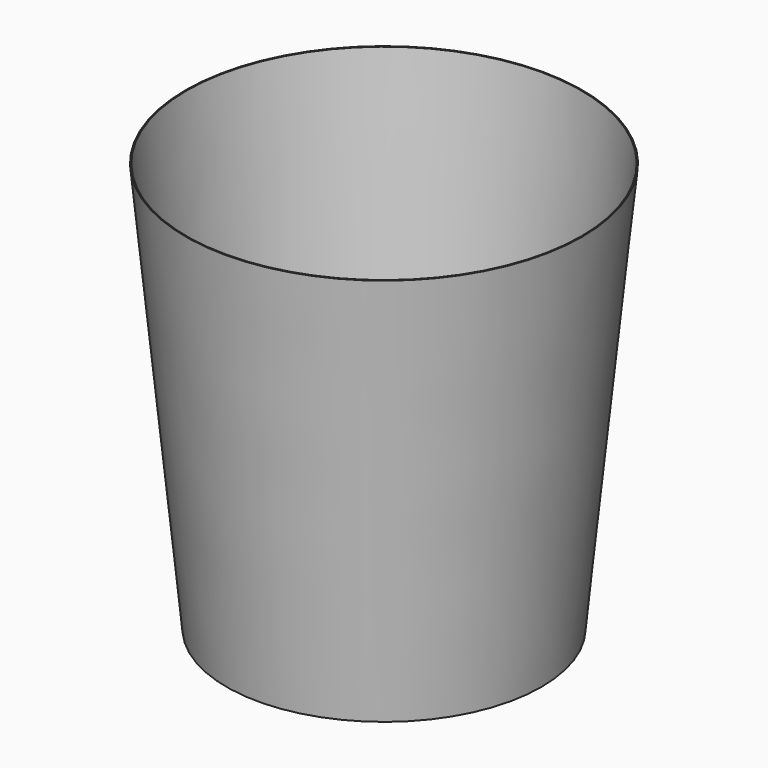
from build123d import *

# Parameters (mm, degrees)
F2_R = 92
F0_R = 73
F4_T = -0.5


with BuildPart() as f3:
    # F2 (on offset) → F3 section 0
    with BuildSketch(Plane.XY.offset(190)):
        Circle(F2_R)
    # F0 (on Top) → F3 section 1
    with BuildSketch(Plane.XY):
        Circle(F0_R)
    loft()

    # F4
    f4_openings = [f3.faces().sort_by_distance(p)[0] for p in [
        (0, 0, 190),
    ]]
    offset(amount=F4_T, openings=f4_openings, kind=Kind.INTERSECTION)


solid = f3.part
